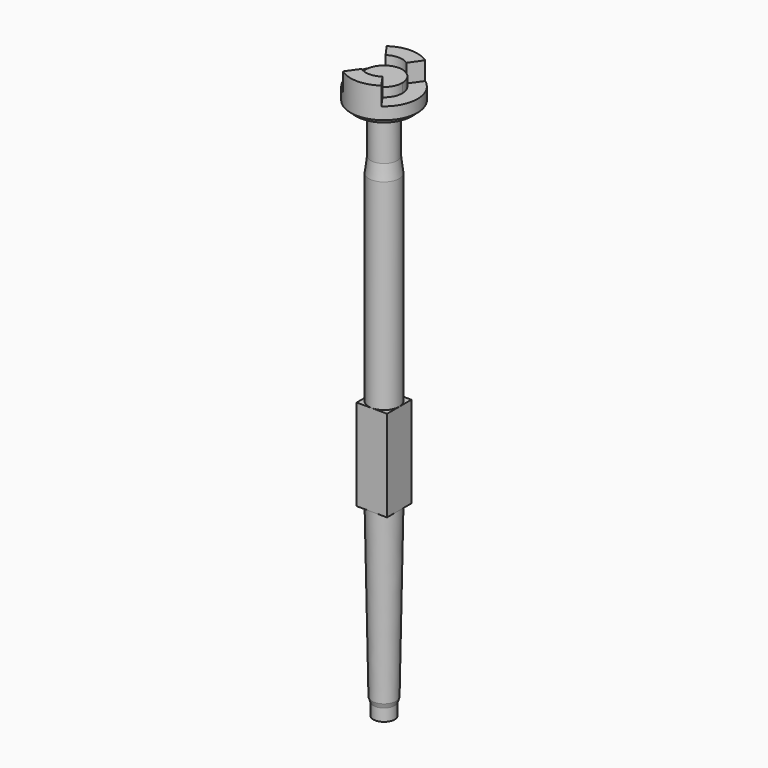
from build123d import *

# Parameters (mm, degrees)
F2_DEPTH = 63.5
F4_DEPTH = 38.1
F5_DEPTH = 76.2


with BuildPart() as f1:
    # F0 (on Front) → F1 (revolve)
    with BuildSketch(Plane.XZ):
        with BuildLine():
            Line((0, 1155.7), (63.5, 1155.7))
            Line((63.5, 1155.7), (63.5, 1993.9))
            Line((63.5, 1993.9), (55.5625, 2057.4))
            Line((55.5625, 2057.4), (55.5625, 2221.968274071))
            Line((55.5625, 2221.968274071), (108.1740037456, 2236.0654840123))
            ThreePointArc((108.1740037456, 2236.0654840123), (121.7511748434, 2245.1374597032), (127, 2260.6))
            Line((127, 2260.6), (139.7, 2260.6))
            Line((139.7, 2260.6), (139.7, 2387.6))
            Line((139.7, 2387.6), (0, 2387.6))
            Line((0, 2387.6), (0, 1155.7))
        make_face()
    revolve(axis=Axis((0, 0, 1771.65), (0, 0, -1)))



with BuildPart() as f1b:
    # F0 (on Front) → F1, piece 2 (revolve)
    with BuildSketch(Plane.XZ):
        Polygon((0, 774.7), (0, 0), (44.45, 0), (44.45, 50.8), (50.8, 69.85), (63.5, 774.7), align=None)
    revolve(axis=Axis((0, 0, 1771.65), (0, 0, -1)))


with BuildPart() as f1_1:
    add(f1.part)

    add(f1b.part)  # F2 merges F1b
    # F0 (on Front) → F2 (join, symmetric)
    with BuildSketch(Plane.XZ):
        Polygon((-63.5, 774.7), (0, 774.7), (63.5, 774.7), (63.5, 1155.7), (0, 1155.7), (-63.5, 1155.7), align=None)
    extrude(amount=F2_DEPTH, both=True)

    # F3 (on face) → F4 (cut)
    with BuildSketch(Plane.XY.offset(2387.6)):
        with BuildLine():
            ThreePointArc((43.7065244499, -62.4193857748), (67.5902254882, -35.1852443285), (76.2, 0))
            ThreePointArc((76.2, 0), (67.5902254882, 35.1852443285), (43.7065244499, 62.4193857748))
            ThreePointArc((43.7065244499, 62.4193857748), (0, 76.2), (-43.7065244499, 62.4193857748))
            ThreePointArc((-43.7065244499, 62.4193857748), (-76.2, 0), (-43.7065244499, -62.4193857748))
            ThreePointArc((-43.7065244499, -62.4193857748), (0, -76.2), (43.7065244499, -62.4193857748))
        make_face()
    extrude(amount=-F4_DEPTH, mode=Mode.SUBTRACT)

    # F3 (on face) → F5 (cut)
    with BuildSketch(Plane.XY.offset(2387.6)):
        with BuildLine():
            ThreePointArc((-43.7065244499, -62.4193857748), (-76.2, 0), (-43.7065244499, 62.4193857748))
            Line((-43.7065244499, 62.4193857748), (-80.1286281582, 114.4355405872))
            ThreePointArc((-80.1286281582, 114.4355405872), (-139.7, 0), (-80.1286281582, -114.4355405872))
            Line((-80.1286281582, -114.4355405872), (-43.7065244499, -62.4193857748))
        make_face()
        with BuildLine():
            ThreePointArc((43.7065244499, 62.4193857748), (67.5902254882, 35.1852443285), (76.2, 0))
            ThreePointArc((76.2, 0), (67.5902254882, -35.1852443285), (43.7065244499, -62.4193857748))
            Line((43.7065244499, -62.4193857748), (80.1286281582, -114.4355405872))
            ThreePointArc((80.1286281582, -114.4355405872), (123.915413395, -64.5062812689), (139.7, 0))
            ThreePointArc((139.7, 0), (123.915413395, 64.5062812689), (80.1286281582, 114.4355405872))
            Line((80.1286281582, 114.4355405872), (43.7065244499, 62.4193857748))
        make_face()
    extrude(amount=-F5_DEPTH, mode=Mode.SUBTRACT)


solid = f1_1.part
